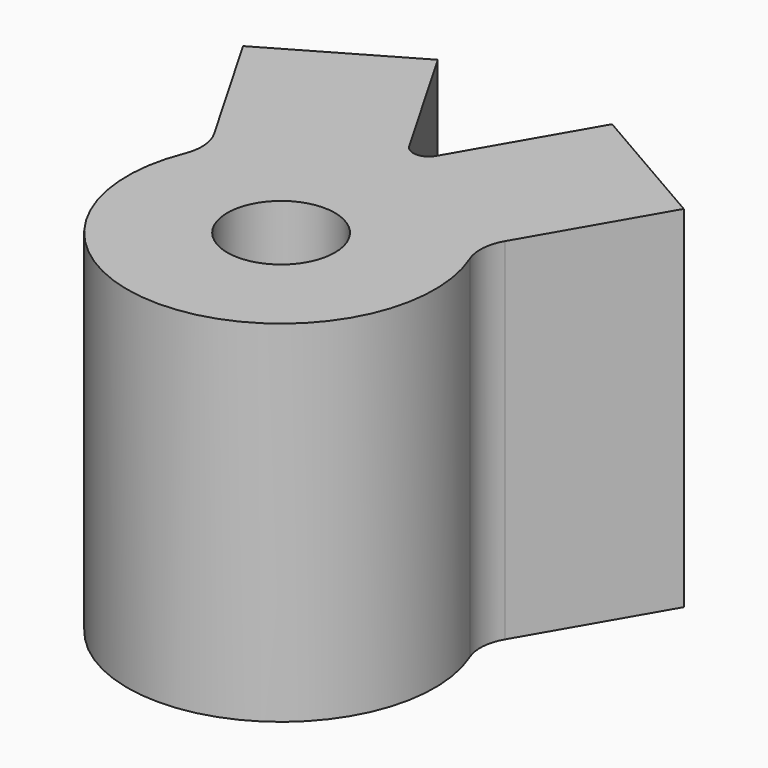
from build123d import *

# Parameters (mm, degrees)
F0_R     = 35
F1_DEPTH = 228


with BuildPart() as f1:
    # F0 (on Top) → F1 (new body)
    with BuildSketch(Plane.XY):
        with BuildLine():
            ThreePointArc((-92.70522, 37.493228), (0, -100), (92.70522, 37.493228))
            ThreePointArc((92.70522, 37.493228), (90.589498, 50.828634), (94.536024, 63.741197))
            Line((94.536024, 63.741197), (143.30127, 148.205081))
            Line((143.30127, 148.205081), (56.69873, 198.205081))
            Line((56.69873, 198.205081), (8.660254, 115))
            ThreePointArc((8.660254, 115), (0, 110), (-8.660254, 115))
            Line((-8.660254, 115), (-56.69873, 198.205081))
            Line((-56.69873, 198.205081), (-143.30127, 148.205081))
            Line((-143.30127, 148.205081), (-94.536024, 63.741197))
            ThreePointArc((-94.536024, 63.741197), (-90.589498, 50.828634), (-92.70522, 37.493228))
        make_face()
        Circle(F0_R, mode=Mode.SUBTRACT)
    extrude(amount=F1_DEPTH)


solid = f1.part
